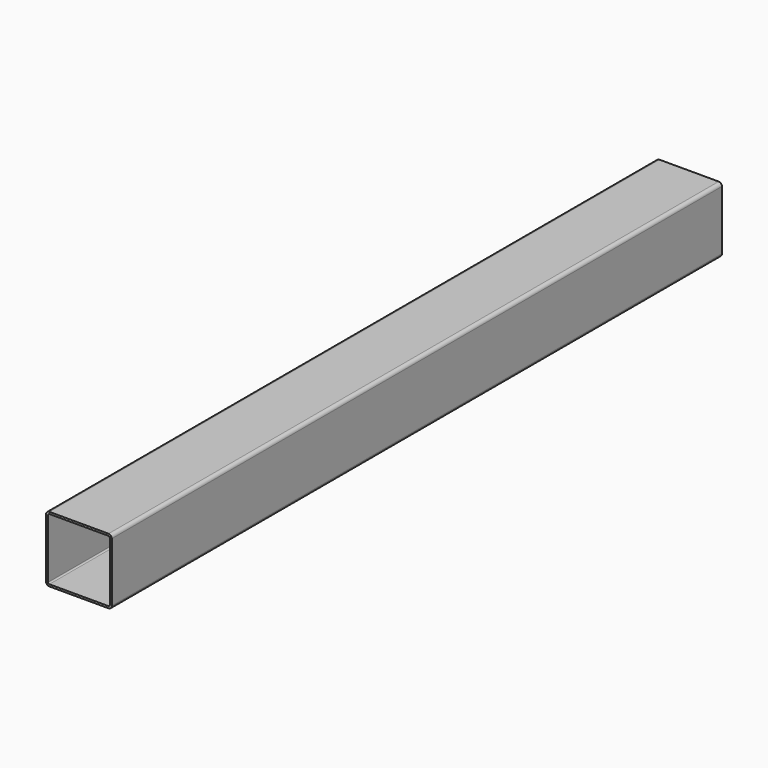
from build123d import *

# Parameters (mm, degrees)
F1_DEPTH = 1160


with BuildPart() as f1:
    # F0 (on Front) → F1 (new body)
    with BuildSketch(Plane.XZ):
        with BuildLine():
            ThreePointArc((50, 45), (48.535534, 48.535534), (45, 50))
            Line((45, 50), (-45, 50))
            ThreePointArc((-45, 50), (-48.535534, 48.535534), (-50, 45))
            Line((-50, 45), (-50, -45))
            ThreePointArc((-50, -45), (-48.535534, -48.535534), (-45, -50))
            Line((-45, -50), (45, -50))
            ThreePointArc((45, -50), (48.535534, -48.535534), (50, -45))
            Line((50, -45), (50, 45))
        make_face()
        with BuildLine():
            ThreePointArc((-47, 45), (-46.414214, 46.414214), (-45, 47))
            Line((-45, 47), (45, 47))
            ThreePointArc((45, 47), (46.414214, 46.414214), (47, 45))
            Line((47, 45), (47, -45))
            ThreePointArc((47, -45), (46.414214, -46.414214), (45, -47))
            Line((45, -47), (-45, -47))
            ThreePointArc((-45, -47), (-46.414214, -46.414214), (-47, -45))
            Line((-47, -45), (-47, 45))
        make_face(mode=Mode.SUBTRACT)
    extrude(amount=-F1_DEPTH)


solid = f1.part
